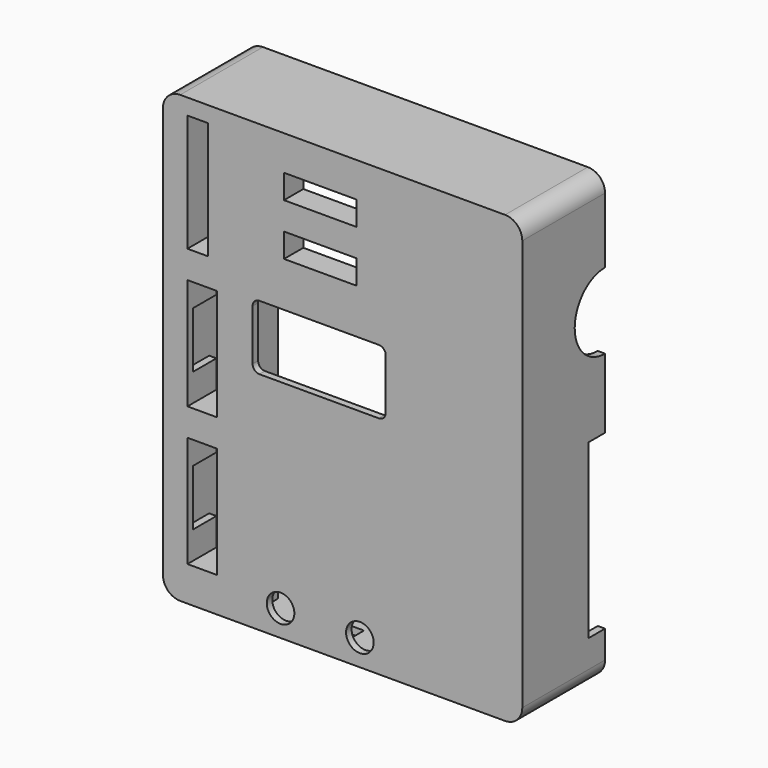
from build123d import *

# Parameters (mm, degrees)
F0_W      = 100
F0_H      = 125
F0_W_2    = 8.5
F0_H_2    = 32.25
F0_R      = 4
F0_R_2    = 2.75
F0_R_3    = 2
F0_W_3    = 6
F0_H_3    = 34
F0_W_4    = 21
F0_H_4    = 7
F1_DEPTH  = 2
F2_W      = 6
F2_H      = 89
F3_DEPTH  = 8.5
F5_DEPTH  = 8.5
F6_W      = 6
F6_H      = 34
F7_DEPTH  = 8.5
F8_W      = 21
F8_H      = 7
F9_DEPTH  = 5
F10_W     = 104.2
F10_H     = 129.2
F10_W_2   = 100
F10_H_2   = 125
F11_DEPTH = 30
F12_R     = 11
F12_W     = 12
F12_H     = 50
F13_DEPTH = 5
F14_R     = 3.75
F15_DEPTH = 1
F16_W     = 6
F16_H     = 89
F17_DEPTH = 1
F18_W     = 6
F18_H     = 89
F19_DEPTH = 1
F20_W     = 10
F20_H     = 5
F21_DEPTH = 5
F22_R     = 5
F23_W     = 38.6
F23_H     = 18.75
F23_R     = 2.75
F23_R_2   = 2
F24_DEPTH = 25
F25_R     = 2


with BuildPart() as f1:
    # F0 (on Front) → F1 (new body)
    with BuildSketch(Plane.XZ):
        with Locations((50, -62.5)):
            Rectangle(F0_W, F0_H)
        with Locations((9.25, -100.875)):
            Rectangle(F0_W_2, F0_H_2, mode=Mode.SUBTRACT)
        with Locations((32, -119.5)):
            Circle(F0_R, mode=Mode.SUBTRACT)
        with Locations((55, -119.5)):
            Circle(F0_R, mode=Mode.SUBTRACT)
        with Locations((9.25, -60.625)):
            Rectangle(F0_W_2, F0_H_2, mode=Mode.SUBTRACT)
        with Locations((34, -56)):
            Circle(F0_R_2, mode=Mode.SUBTRACT)
        with Locations((27.5, -47)):
            Circle(F0_R_3, mode=Mode.SUBTRACT)
        with Locations((8, -19.5)):
            Rectangle(F0_W_3, F0_H_3, mode=Mode.SUBTRACT)
        with Locations((43.5, -26.5)):
            Rectangle(F0_W_4, F0_H_4, mode=Mode.SUBTRACT)
        with Locations((43.5, -11.5)):
            Rectangle(F0_W_4, F0_H_4, mode=Mode.SUBTRACT)
        with Locations((52, -56)):
            Circle(F0_R_2, mode=Mode.SUBTRACT)
        with Locations((58.5, -47)):
            Circle(F0_R_3, mode=Mode.SUBTRACT)
    extrude(amount=F1_DEPTH)

    # F2 (on face) → F3 (join)
    with BuildSketch(Plane(origin=(0, 0, 0), x_dir=(-1, 0, 0), z_dir=(0, 1, 0))):
        Polygon((-22, -125), (-16, -125), (-16, -117), (-16, -36), (-22, -36), align=None)
        with Locations((-67, -80.5)):
            Rectangle(F2_W, F2_H)
    extrude(amount=F3_DEPTH)

    # F4 (on face) → F5 (join)
    with BuildSketch(Plane(origin=(0, 0, 0), x_dir=(-1, 0, 0), z_dir=(0, 1, 0))):
        Polygon((-16, -119.1), (-5, -119.1), (-2.9, -119.1), (-2.9, -109), (-5, -109), (-5, -117), (-13.5, -117), (-13.5, -84.75), (-5, -84.75), (-5, -92.75), (-2.9, -92.75), (-2.9, -82.65), (-5, -82.65), (-16, -82.65), align=None)
        Polygon((-16, -78.85), (-16, -82.65), (-5, -82.65), (-2.9, -82.65), (-2.9, -78.85), (-5, -78.85), align=None)
        Polygon((-16, -42.4), (-16, -78.85), (-5, -78.85), (-2.9, -78.85), (-2.9, -68.75), (-5, -68.75), (-5, -76.75), (-13.5, -76.75), (-13.5, -44.5), (-5, -44.5), (-5, -52.5), (-2.9, -52.5), (-2.9, -42.4), align=None)
    extrude(amount=F5_DEPTH)

    # F6 (on face) → F7 (join)
    with BuildSketch(Plane(origin=(0, 0, 0), x_dir=(-1, 0, 0), z_dir=(0, 1, 0))):
        Polygon((-2.9, -38.6), (-5, -38.6), (-16, -38.6), (-16, -42.4), (-2.9, -42.4), align=None)
        Polygon((-16, -38.6), (-5, -38.6), (-2.9, -38.6), (-2.9, -0.4), (-16, -0.4), align=None)
        with Locations((-8, -19.5)):
            Rectangle(F6_W, F6_H, mode=Mode.SUBTRACT)
    extrude(amount=F7_DEPTH)

    # F8 (on face) → F9 (join)
    with BuildSketch(Plane(origin=(0, 0, 0), x_dir=(-1, 0, 0), z_dir=(0, 1, 0))):
        Polygon((-56.1, -33.1), (-54, -33.1), (-30.9, -33.1), (-30.9, -19.9), (-56.1, -19.9), align=None)
        with Locations((-43.5, -26.5)):
            Rectangle(F8_W, F8_H, mode=Mode.SUBTRACT)
        Polygon((-56.1, -18.1), (-56.1, -19.9), (-30.9, -19.9), (-30.9, -18.1), (-54, -18.1), align=None)
        Polygon((-56.1, -4.9), (-56.1, -18.1), (-54, -18.1), (-30.9, -18.1), (-30.9, -4.9), align=None)
        with Locations((-43.5, -11.5)):
            Rectangle(F8_W, F8_H, mode=Mode.SUBTRACT)
    extrude(amount=F9_DEPTH)

    # F10 (on face) → F11 (join)
    with BuildSketch(Plane.XZ.offset(2)):
        with Locations((50, -62.5)):
            Rectangle(F10_W, F10_H)
        with Locations((50, -62.5)):
            Rectangle(F10_W_2, F10_H_2, mode=Mode.SUBTRACT)
    extrude(amount=-F11_DEPTH)

    # F12 (on face) → F13 (cut)
    with BuildSketch(Plane.YZ.offset(102.1)):
        with Locations((28, -32.9)):
            Circle(F12_R)
        with Locations((28, -89.1)):
            Rectangle(F12_W, F12_H)
    extrude(amount=-F13_DEPTH, mode=Mode.SUBTRACT)

    # F14 (on face) → F15 (cut)
    with BuildSketch(Plane(origin=(0, 0, 0), x_dir=(-1, 0, 0), z_dir=(0, 1, 0))):
        with Locations((-34, -56)):
            Circle(F14_R)
        with Locations((-52, -56)):
            Circle(F14_R)
    extrude(amount=-F15_DEPTH, mode=Mode.SUBTRACT)

    # F16 (on face) → F17 (join)
    with BuildSketch(Plane(origin=(0, 8.5, 0), x_dir=(-1, 0, 0), z_dir=(0, 1, 0))):
        with Locations((-19, -80.5)):
            Rectangle(F16_W, F16_H)
    extrude(amount=F17_DEPTH)

    # F18 (on face) → F19 (join)
    with BuildSketch(Plane(origin=(0, 8.5, 0), x_dir=(-1, 0, 0), z_dir=(0, 1, 0))):
        with Locations((-67, -80.5)):
            Rectangle(F18_W, F18_H)
    extrude(amount=F19_DEPTH)

    # F20 (on face) → F21 (cut)
    with BuildSketch(Plane.XY.offset(-125)):
        with Locations((42, 7)):
            Rectangle(F20_W, F20_H)
    extrude(amount=-F21_DEPTH, mode=Mode.SUBTRACT)

    # F22
    f22_edges = [f1.edges().sort_by_distance(p)[0] for p in [
        (102.1, 13, 2.1),
        (-2.1, 13, 2.1),
        (-2.1, 13, -127.1),
        (102.1, 13, -127.1),
    ]]
    fillet(f22_edges, radius=F22_R)

    # F23 (on face) → F24 (cut)
    with BuildSketch(Plane.XZ.offset(2)):
        with Locations((43.2, -52.375)):
            Rectangle(F23_W, F23_H)
        with Locations((34, -56)):
            Circle(F23_R, mode=Mode.SUBTRACT)
        with Locations((27.5, -47)):
            Circle(F23_R_2, mode=Mode.SUBTRACT)
        with Locations((52, -56)):
            Circle(F23_R, mode=Mode.SUBTRACT)
        with Locations((58.5, -47)):
            Circle(F23_R_2, mode=Mode.SUBTRACT)
    extrude(amount=-F24_DEPTH, mode=Mode.SUBTRACT)

    # F25
    f25_edges = [f1.edges().sort_by_distance(p)[0] for p in [
        (23.9, -1, -43),
        (62.5, -1, -43),
        (23.9, -1, -61.75),
        (62.5, -1, -61.75),
    ]]
    fillet(f25_edges, radius=F25_R)


solid = f1.part
